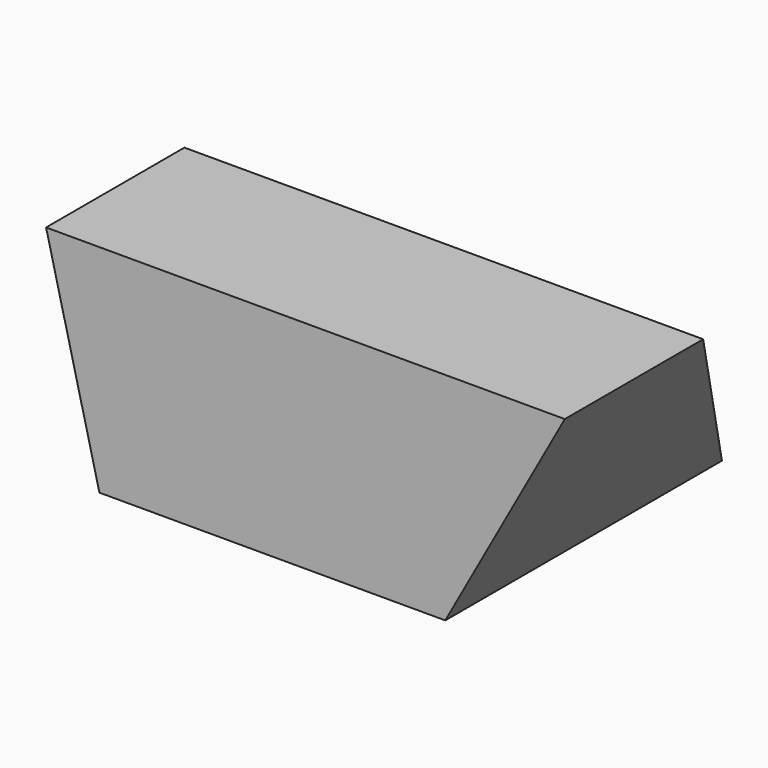
from build123d import *

# Parameters (mm, degrees)
F0_W = 40
F0_H = 40
F2_W = 60
F2_H = 20


with BuildPart() as f3:
    # F0 (on Top) → F3 section 0
    with BuildSketch(Plane.XY):
        with Locations((-20, 20)):
            Rectangle(F0_W, F0_H)
    # F2 (on offset) → F3 section 1
    with BuildSketch(Plane.XY.offset(25)):
        with Locations((-16.171138, 10)):
            Rectangle(F2_W, F2_H)
    loft()


solid = f3.part
